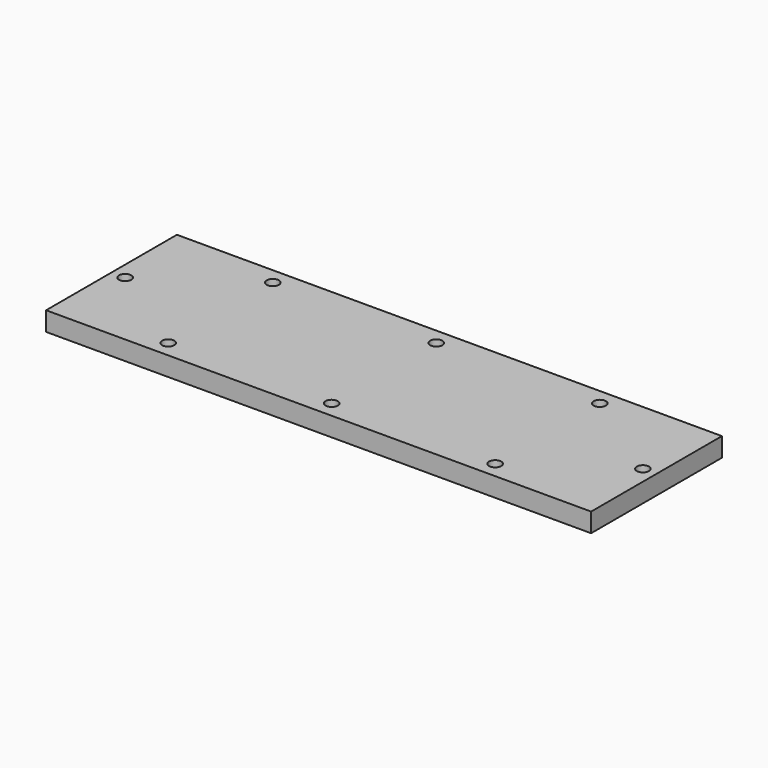
from build123d import *

# Parameters (mm, degrees)
F0_W     = 200
F0_H     = 60
F1_DEPTH = 7
F2_D     = 4.5


with BuildPart() as f1:
    # F0 (on Top) → F1 (new body)
    with BuildSketch(Plane.XY):
        Rectangle(F0_W, F0_H)
    extrude(amount=-F1_DEPTH)

    # F2 (through all)
    with Locations(Plane.XY):
        with Locations((-60, 24), (60, 24), (60, -24), (-60, -24), (-95, 0), (95, 0), (0, 24), (0, -24)):
            Hole(F2_D / 2)


solid = f1.part
